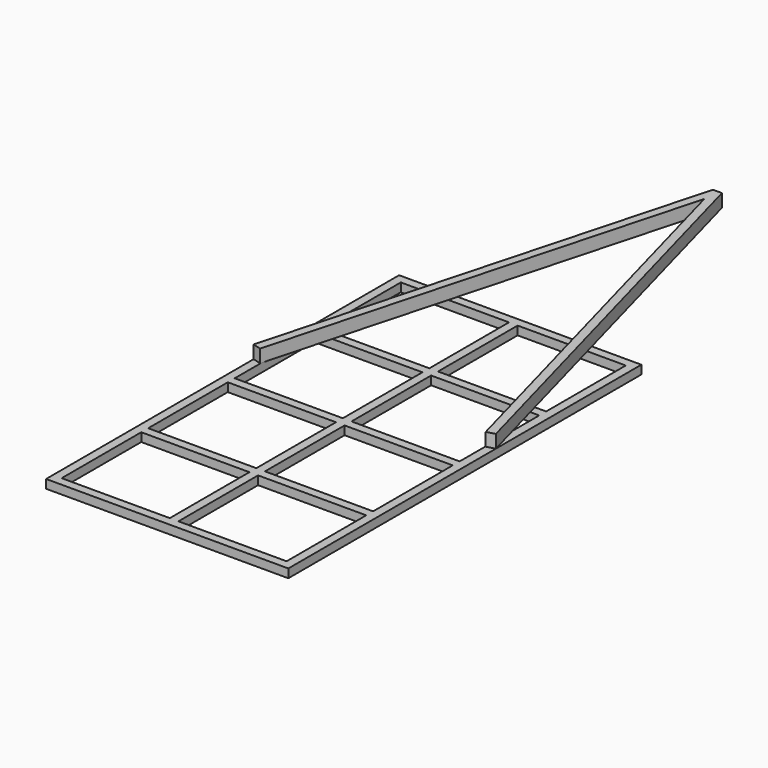
from build123d import *

# Parameters (mm, degrees)
F0_W     = 1400
F0_H     = 2550
F0_W_2   = 625
F0_H_2   = 575
F1_DEPTH = 50
F3_DEPTH = 75


with BuildPart() as f1:
    # F0 (on Top) → F1 (new body)
    with BuildSketch(Plane.XY):
        Rectangle(F0_W, F0_H)
        with Locations((-337.5, -937.5)):
            Rectangle(F0_W_2, F0_H_2, mode=Mode.SUBTRACT)
        with Locations((-337.5, -312.5)):
            Rectangle(F0_W_2, F0_H_2, mode=Mode.SUBTRACT)
        with Locations((337.5, -937.5)):
            Rectangle(F0_W_2, F0_H_2, mode=Mode.SUBTRACT)
        with Locations((337.5, -312.5)):
            Rectangle(F0_W_2, F0_H_2, mode=Mode.SUBTRACT)
        with Locations((-337.5, 312.5)):
            Rectangle(F0_W_2, F0_H_2, mode=Mode.SUBTRACT)
        with Locations((-337.5, 937.5)):
            Rectangle(F0_W_2, F0_H_2, mode=Mode.SUBTRACT)
        with Locations((337.5, 312.5)):
            Rectangle(F0_W_2, F0_H_2, mode=Mode.SUBTRACT)
        with Locations((337.5, 937.5)):
            Rectangle(F0_W_2, F0_H_2, mode=Mode.SUBTRACT)
    extrude(amount=F1_DEPTH)

    # F2 (on face) → F3 (join)
    with BuildSketch(Plane.XY.offset(50)):
        Polygon((-26.03622, 2699.536199), (-700, 224.015392), (-651.755985, 210.880895), (0, 2604.830762), (651.755985, 210.880895), (700, 224.015392), (26.03622, 2699.536199), align=None)
    extrude(amount=F3_DEPTH)


solid = f1.part
